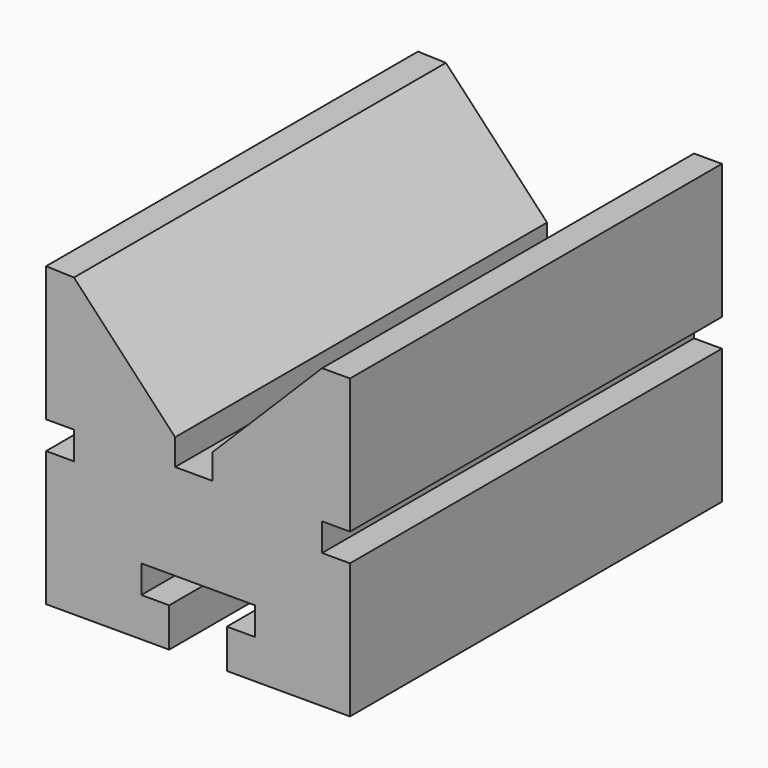
from build123d import *

# Parameters (mm, degrees)
F1_DEPTH = 50


with BuildPart() as f1:
    # F0 (on Front) → F1 (new body)
    with BuildSketch(Plane.XZ):
        Polygon((-13.242977, 0), (0, 0), (0, 14.5), (-3, 14.5), (-3, 17.5), (0, 17.5), (0, 32), (-3, 32), (-14.805269, 20.194731), (-14.805269, 17.5), (-16.805269, 17.5), (-18.805269, 17.5), (-18.805269, 20.323527), (-29.687413, 31.906461), (-32.685954, 32), (-32.685954, 17.5), (-29.685954, 17.5), (-29.685954, 14.5), (-32.685954, 14.5), (-32.685954, 0), (-19.442977, 0), (-19.442977, 4.2), (-22.442977, 4.2), (-22.442977, 7.2), (-10.242977, 7.2), (-10.242977, 4.2), (-13.242977, 4.2), align=None)
    extrude(amount=F1_DEPTH)


solid = f1.part
